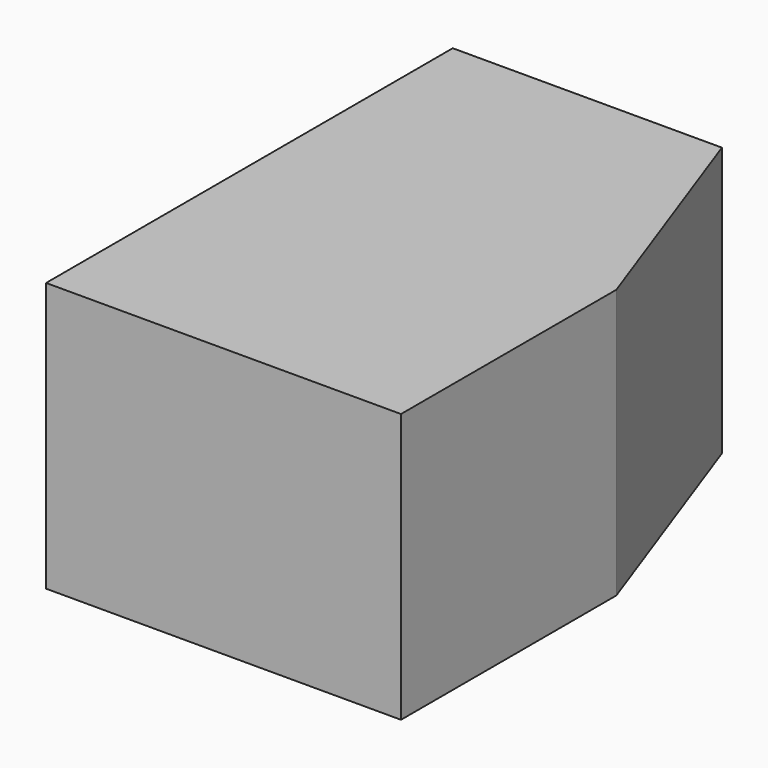
from build123d import *

# Parameters (mm, degrees)
F1_DEPTH  = 25.4
F1_FACE_W = 22.56862
F1_FACE_H = 25.4
F2_DEPTH  = 25.4
F2_FACE_W = 33.491054
F2_FACE_H = 25.4
F3_DEPTH  = 25.4


with BuildPart() as f1:
    # F0 (on Top) → F1 (new body)
    with BuildSketch(Plane.XY):
        Polygon((-77.717885, 2.430012), (-85.80894, 24.998631), (-85.80894, 2.430012), align=None)
    extrude(amount=F1_DEPTH)

    # F1_face (on face) → F2 (join)
    with BuildSketch(Plane(origin=(-85.80894, 13.714322, 12.7), x_dir=(0, -1, 0), z_dir=(-1, 0, 0))):
        Rectangle(F1_FACE_W, F1_FACE_H)
    extrude(amount=F2_DEPTH)

    # F2_face (on face) → F3 (join)
    with BuildSketch(Plane(origin=(-94.463413, 2.430012, 12.7), x_dir=(1, 0, 0), z_dir=(0, -1, 0))):
        Rectangle(F2_FACE_W, F2_FACE_H)
    extrude(amount=F3_DEPTH)


solid = f1.part
